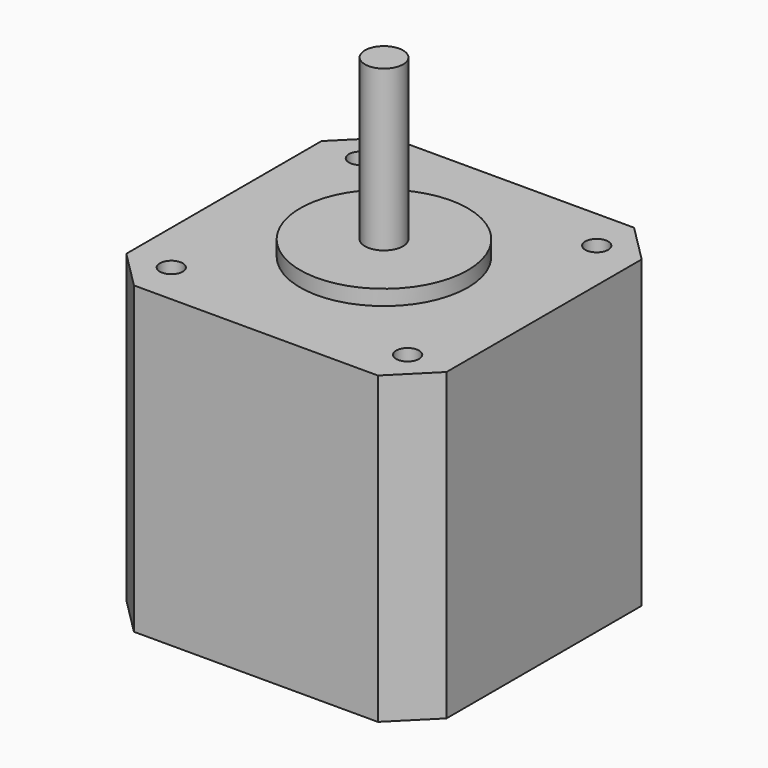
from build123d import *

# Parameters (mm, degrees)
F0_W     = 42
F0_H     = 42
F1_DEPTH = 40
F2_R     = 11
F3_DEPTH = 2
F4_R     = 2.5
F5_DEPTH = 21
F6_R     = 1.5
F7_DEPTH = 4.5
F8_SIZE  = 5


with BuildPart() as f1:
    # F0 (on Top) → F1 (new body)
    with BuildSketch(Plane.XY):
        Rectangle(F0_W, F0_H)
    extrude(amount=F1_DEPTH)

    # F2 (on face) → F3 (join)
    with BuildSketch(Plane.XY.offset(40)):
        Circle(F2_R)
    extrude(amount=F3_DEPTH)

    # F4 (on face) → F5 (join)
    with BuildSketch(Plane.XY.offset(42)):
        Circle(F4_R)
    extrude(amount=F5_DEPTH)

    # F6 (on face) → F7 (cut)
    with BuildSketch(Plane.XY.offset(40)):
        with Locations((-15.5, 15.5)):
            Circle(F6_R)
        with Locations((-15.5, -15.5)):
            Circle(F6_R)
        with Locations((15.5, 15.5)):
            Circle(F6_R)
        with Locations((15.5, -15.5)):
            Circle(F6_R)
    extrude(amount=-F7_DEPTH, mode=Mode.SUBTRACT)

    # F8
    f8_edges = [f1.edges().sort_by_distance(p)[0] for p in [
        (21, 21, 20),
        (21, -21, 20),
        (-21, -21, 20),
        (-21, 21, 20),
    ]]
    chamfer(f8_edges, length=F8_SIZE)


solid = f1.part
